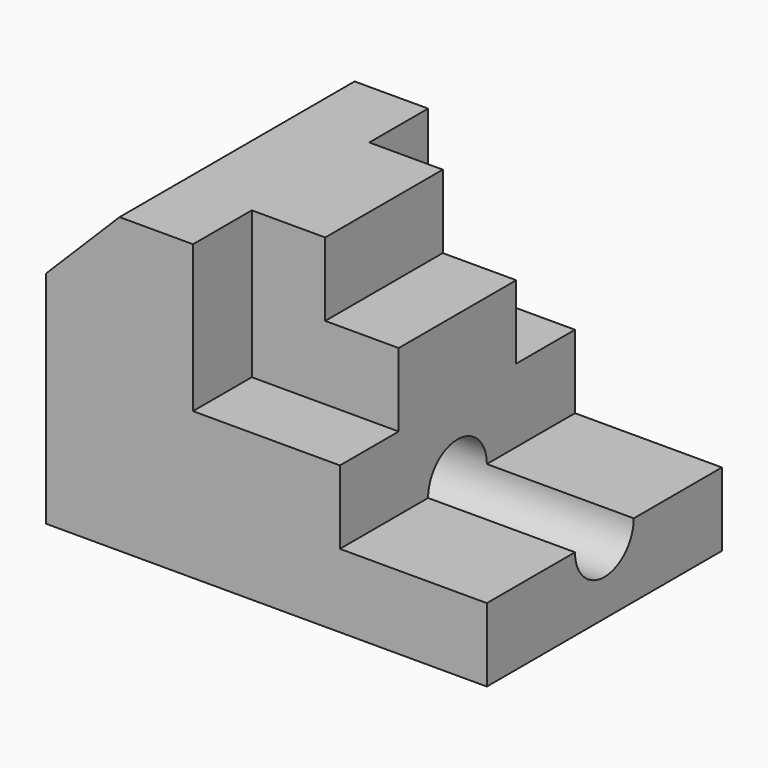
from build123d import *

# Parameters (mm, degrees)
F0_W     = 20
F0_H     = 80
F1_DEPTH = 80
F2_DEPTH = 40
F3_DEPTH = 60
F5_DEPTH = 80
F0_W_2   = 40
F0_H_2   = 20
F6_DEPTH = 20
F7_R     = 10
F8_DEPTH = 120


with BuildPart() as f1:
    # F0 (on Top) → F1 (new body)
    with BuildSketch(Plane.XY):
        with Locations((10, 40)):
            Rectangle(F0_W, F0_H)
        Polygon((20, 80), (20, 0), (40, 0), (40, 20), (60, 20), (60, 60), (40, 60), (40, 80), align=None)
    extrude(amount=F1_DEPTH)

    # F0 (on Top) → F2 (join)
    with BuildSketch(Plane.XY):
        Polygon((80, 80), (40, 80), (40, 60), (60, 60), (80, 60), align=None)
        Polygon((40, 20), (40, 0), (80, 0), (80, 20), (60, 20), align=None)
    extrude(amount=F2_DEPTH)

    # F0 (on Top) → F3 (join)
    with BuildSketch(Plane.XY):
        Polygon((60, 20), (80, 20), (80, 30), (80, 50), (80, 60), (60, 60), align=None)
    extrude(amount=F3_DEPTH)

    # F4 (on face) → F5 (cut)
    with BuildSketch(Plane.XZ):
        Polygon((20, 80), (0, 80), (0, 60), align=None)
    extrude(amount=-F5_DEPTH, mode=Mode.SUBTRACT)

    # F0 (on Top) → F6 (join)
    with BuildSketch(Plane.XY):
        Polygon((120, 80), (80, 80), (80, 60), (80, 50), (120, 50), align=None)
        Polygon((80, 20), (80, 0), (120, 0), (120, 30), (80, 30), align=None)
        with Locations((100, 40)):
            Rectangle(F0_W_2, F0_H_2)
    extrude(amount=F6_DEPTH)

    # F7 (on face) → F8 (cut)
    with BuildSketch(Plane.YZ.offset(120)):
        with Locations((40, 20)):
            Circle(F7_R)
    extrude(amount=-F8_DEPTH, mode=Mode.SUBTRACT)


solid = f1.part
